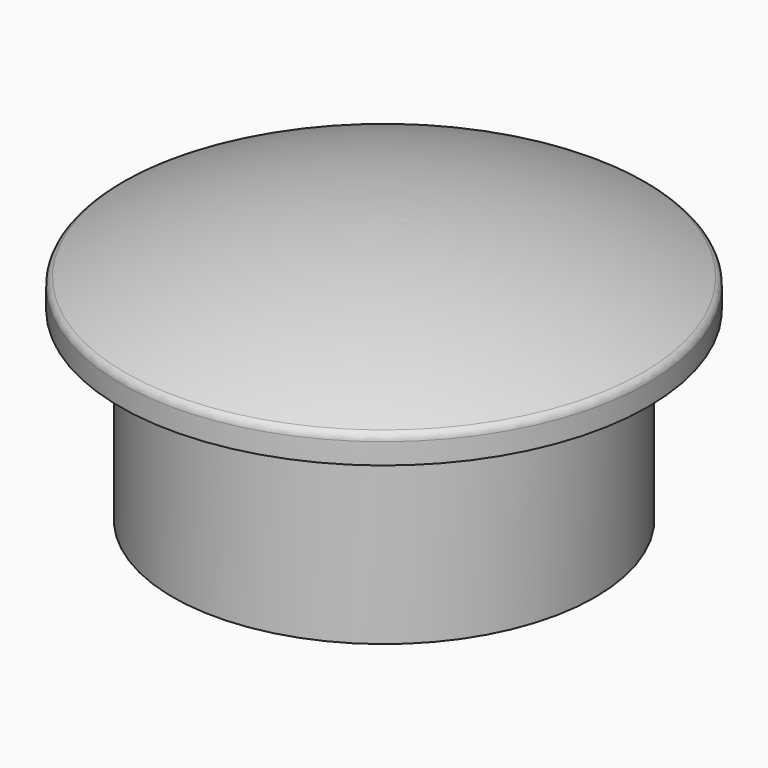
from build123d import *

# Parameters (mm, degrees)
F0_R     = 6.35
F1_DEPTH = 3.175
F5_R     = 0.254


with BuildPart() as f1:
    # F0 (on Top) → F1 (new body, symmetric)
    with BuildSketch(Plane.XY):
        Circle(F0_R)
    extrude(amount=F1_DEPTH, both=True)

    # F2 (on Front) → F4 (revolve)
    with BuildSketch(Plane.XZ):
        with BuildLine():
            Line((7.9375, 2.38125), (7.9375, 3.175))
            ThreePointArc((7.9375, 3.175), (4.062179, 4.469276), (0, 4.90742))
            Line((0, 4.90742), (0, 2.38125))
            Line((0, 2.38125), (7.9375, 2.38125))
        make_face()
    revolve(axis=Axis((0, 0, 3.644335), (0, 0, 1)))

    # F5
    f5_edges = [f1.edges().sort_by_distance(p)[0] for p in [
        (-7.9375, 0, 3.175),
    ]]
    fillet(f5_edges, radius=F5_R)


solid = f1.part
